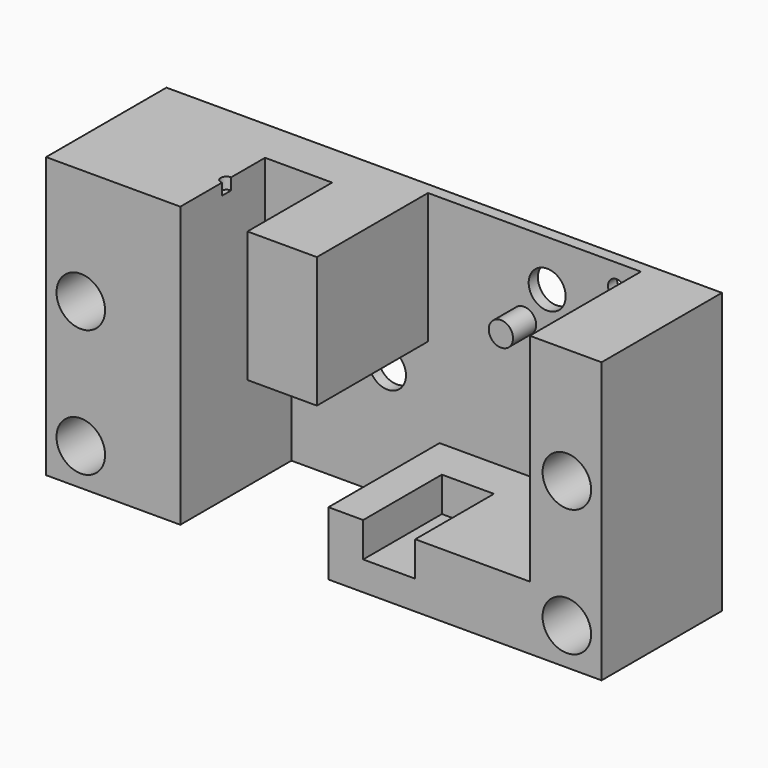
from build123d import *

# Parameters (mm, degrees)
F0_W          = 48
F0_H          = 24.2
F0_R          = 1.6
F1_DEPTH      = 1
F2_R          = 2.1
F2_W          = 6
F2_H          = 11.3
F3_DEPTH      = 12
F2_W_2        = 4.5
F2_H_2        = 3
F4_DEPTH      = 3.5
F2_R_2        = 1.05
F5_DEPTH      = 2.5
F2_R_3        = 0.75
F6_DEPTH      = 1.001
F7_DEPTH      = 12.001
F7_DEPTH_BACK = 1.001
F2_W_3        = 5.8
F8_DEPTH      = 2.85
F9_R          = 0.5
F10_DEPTH     = 1


with BuildPart() as f1:
    # F0 (on Front) → F1 (new body)
    with BuildSketch(Plane.XZ):
        Rectangle(F0_W, F0_H)
        with Locations((-4.1, -2.4)):
            Circle(F0_R, mode=Mode.SUBTRACT)
        with Locations((9.7, 8.1)):
            Circle(F0_R, mode=Mode.SUBTRACT)
        Rectangle(F0_W, F0_H)
        with Locations((-4.1, -2.4)):
            Circle(F0_R, mode=Mode.SUBTRACT)
        with Locations((9.7, 8.1)):
            Circle(F0_R, mode=Mode.SUBTRACT)
        Rectangle(F0_W, F0_H)
        with Locations((-4.1, -2.4)):
            Circle(F0_R, mode=Mode.SUBTRACT)
        with Locations((9.7, 8.1)):
            Circle(F0_R, mode=Mode.SUBTRACT)
    extrude(amount=-F1_DEPTH)

    # F2 (on face) → F3 (join)
    with BuildSketch(Plane.XZ):
        Polygon((3.4, -6.6), (0.4, -6.6), (0.4, -12.1), (17.8, -12.1), (17.8, -6.6), (7.9, -6.6), (7.9, -9.6), (3.4, -9.6), align=None)
        Polygon((-24, -12.1), (-12.4, -12.1), (-12.4, 0.8), (-12.4, 12.1), (-24, 12.1), align=None)
        with Locations((-21, -8.9)):
            Circle(F2_R, mode=Mode.SUBTRACT)
        with Locations((-21, 2.1)):
            Circle(F2_R, mode=Mode.SUBTRACT)
        Polygon((17.8, -6.6), (17.8, -12.1), (24, -12.1), (24, 12.1), (17.8, 12.1), align=None)
        with Locations((21, -8.9)):
            Circle(F2_R, mode=Mode.SUBTRACT)
        with Locations((21, 2.1)):
            Circle(F2_R, mode=Mode.SUBTRACT)
        with Locations((-3.6, 6.45)):
            Rectangle(F2_W, F2_H)
    extrude(amount=F3_DEPTH)

    # F2 (on face) → F4 (join)
    with BuildSketch(Plane.XZ):
        with Locations((5.65, -8.1)):
            Rectangle(F2_W_2, F2_H_2)
    extrude(amount=F4_DEPTH)

    # F2 (on face) → F5 (join)
    with BuildSketch(Plane.XZ):
        with Locations((7.7, 5.1)):
            Circle(F2_R_2)
    extrude(amount=F5_DEPTH)

    # F2 (on face) → F6 (cut, through all)
    with BuildSketch(Plane.XZ):
        with Locations((15.7, 10.1)):
            Circle(F2_R_3)
    extrude(amount=-F6_DEPTH, mode=Mode.SUBTRACT)

    # F2 (on face) → F7 (cut, two sides)
    with BuildSketch(Plane.XZ) as f7_sk:
        with Locations((-21, 2.1)):
            Circle(F2_R)
        with Locations((21, 2.1)):
            Circle(F2_R)
        with Locations((-21, -8.9)):
            Circle(F2_R)
        with Locations((21, -8.9)):
            Circle(F2_R)
    extrude(amount=F7_DEPTH, mode=Mode.SUBTRACT)
    extrude(f7_sk.sketch, amount=-F7_DEPTH_BACK, mode=Mode.SUBTRACT)

    # F2 (on face) → F8 (join)
    with BuildSketch(Plane.XZ):
        with Locations((-9.5, 6.45)):
            Rectangle(F2_W_3, F2_H)
    extrude(amount=F8_DEPTH)

    # F9 (on face) → F10 (cut)
    with BuildSketch(Plane.XY.offset(12.1)):
        with Locations((-12.4, -7)):
            Circle(F9_R)
    extrude(amount=-F10_DEPTH, mode=Mode.SUBTRACT)


solid = f1.part
